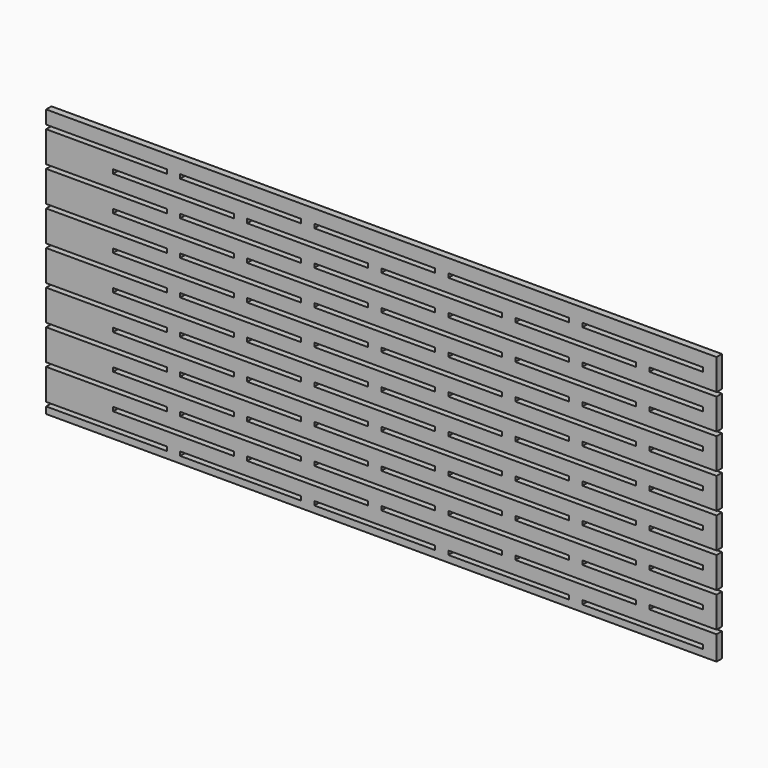
from build123d import *

# Parameters (mm, degrees)
F0_W     = 500
F0_H     = 200
F1_DEPTH = 5
F2_W     = 90
F2_H     = 3
F3_DEPTH = 25


with BuildPart() as f1:
    # F0 (on Front) → F1 (new body)
    with BuildSketch(Plane.XZ):
        Rectangle(F0_W, F0_H)
    extrude(amount=F1_DEPTH)

    # F2 (on face) → F3 (cut)
    with BuildSketch(Plane.XZ.offset(5)):
        with Locations((-205, 88.5)):
            Rectangle(F2_W, F2_H)
        with Locations((-155, 75.5)):
            Rectangle(F2_W, F2_H)
        with Locations((-205, 62.5)):
            Rectangle(F2_W, F2_H)
        with Locations((-155, 49.5)):
            Rectangle(F2_W, F2_H)
        with Locations((-205, 36.5)):
            Rectangle(F2_W, F2_H)
        with Locations((-155, 23.5)):
            Rectangle(F2_W, F2_H)
        with Locations((-205, 10.5)):
            Rectangle(F2_W, F2_H)
        with Locations((-155, -2.5)):
            Rectangle(F2_W, F2_H)
        with Locations((-205, -15.5)):
            Rectangle(F2_W, F2_H)
        with Locations((-155, -28.5)):
            Rectangle(F2_W, F2_H)
        with Locations((-205, -41.5)):
            Rectangle(F2_W, F2_H)
        with Locations((-155, -54.5)):
            Rectangle(F2_W, F2_H)
        with Locations((-205, -67.5)):
            Rectangle(F2_W, F2_H)
        with Locations((-155, -80.5)):
            Rectangle(F2_W, F2_H)
        with Locations((-205, -93.5)):
            Rectangle(F2_W, F2_H)
        with Locations((-155, -106.5)):
            Rectangle(F2_W, F2_H)
        with Locations((-105, 88.5)):
            Rectangle(F2_W, F2_H)
        with Locations((-55, 75.5)):
            Rectangle(F2_W, F2_H)
        with Locations((-105, 62.5)):
            Rectangle(F2_W, F2_H)
        with Locations((-55, 49.5)):
            Rectangle(F2_W, F2_H)
        with Locations((-105, 36.5)):
            Rectangle(F2_W, F2_H)
        with Locations((-55, 23.5)):
            Rectangle(F2_W, F2_H)
        with Locations((-105, 10.5)):
            Rectangle(F2_W, F2_H)
        with Locations((-55, -2.5)):
            Rectangle(F2_W, F2_H)
        with Locations((-105, -15.5)):
            Rectangle(F2_W, F2_H)
        with Locations((-55, -28.5)):
            Rectangle(F2_W, F2_H)
        with Locations((-105, -41.5)):
            Rectangle(F2_W, F2_H)
        with Locations((-55, -54.5)):
            Rectangle(F2_W, F2_H)
        with Locations((-105, -67.5)):
            Rectangle(F2_W, F2_H)
        with Locations((-55, -80.5)):
            Rectangle(F2_W, F2_H)
        with Locations((-105, -93.5)):
            Rectangle(F2_W, F2_H)
        with Locations((-55, -106.5)):
            Rectangle(F2_W, F2_H)
        with Locations((-5, 88.5)):
            Rectangle(F2_W, F2_H)
        with Locations((45, 75.5)):
            Rectangle(F2_W, F2_H)
        with Locations((-5, 62.5)):
            Rectangle(F2_W, F2_H)
        with Locations((45, 49.5)):
            Rectangle(F2_W, F2_H)
        with Locations((-5, 36.5)):
            Rectangle(F2_W, F2_H)
        with Locations((45, 23.5)):
            Rectangle(F2_W, F2_H)
        with Locations((-5, 10.5)):
            Rectangle(F2_W, F2_H)
        with Locations((45, -2.5)):
            Rectangle(F2_W, F2_H)
        with Locations((-5, -15.5)):
            Rectangle(F2_W, F2_H)
        with Locations((45, -28.5)):
            Rectangle(F2_W, F2_H)
        with Locations((-5, -41.5)):
            Rectangle(F2_W, F2_H)
        with Locations((45, -54.5)):
            Rectangle(F2_W, F2_H)
        with Locations((-5, -67.5)):
            Rectangle(F2_W, F2_H)
        with Locations((45, -80.5)):
            Rectangle(F2_W, F2_H)
        with Locations((-5, -93.5)):
            Rectangle(F2_W, F2_H)
        with Locations((45, -106.5)):
            Rectangle(F2_W, F2_H)
        with Locations((95, 88.5)):
            Rectangle(F2_W, F2_H)
        with Locations((145, 75.5)):
            Rectangle(F2_W, F2_H)
        with Locations((95, 62.5)):
            Rectangle(F2_W, F2_H)
        with Locations((145, 49.5)):
            Rectangle(F2_W, F2_H)
        with Locations((95, 36.5)):
            Rectangle(F2_W, F2_H)
        with Locations((145, 23.5)):
            Rectangle(F2_W, F2_H)
        with Locations((95, 10.5)):
            Rectangle(F2_W, F2_H)
        with Locations((145, -2.5)):
            Rectangle(F2_W, F2_H)
        with Locations((95, -15.5)):
            Rectangle(F2_W, F2_H)
        with Locations((145, -28.5)):
            Rectangle(F2_W, F2_H)
        with Locations((95, -41.5)):
            Rectangle(F2_W, F2_H)
        with Locations((145, -54.5)):
            Rectangle(F2_W, F2_H)
        with Locations((95, -67.5)):
            Rectangle(F2_W, F2_H)
        with Locations((145, -80.5)):
            Rectangle(F2_W, F2_H)
        with Locations((95, -93.5)):
            Rectangle(F2_W, F2_H)
        with Locations((145, -106.5)):
            Rectangle(F2_W, F2_H)
        with Locations((195, 88.5)):
            Rectangle(F2_W, F2_H)
        with Locations((245, 75.5)):
            Rectangle(F2_W, F2_H)
        with Locations((195, 62.5)):
            Rectangle(F2_W, F2_H)
        with Locations((245, 49.5)):
            Rectangle(F2_W, F2_H)
        with Locations((195, 36.5)):
            Rectangle(F2_W, F2_H)
        with Locations((245, 23.5)):
            Rectangle(F2_W, F2_H)
        with Locations((195, 10.5)):
            Rectangle(F2_W, F2_H)
        with Locations((245, -2.5)):
            Rectangle(F2_W, F2_H)
        with Locations((195, -15.5)):
            Rectangle(F2_W, F2_H)
        with Locations((245, -28.5)):
            Rectangle(F2_W, F2_H)
        with Locations((195, -41.5)):
            Rectangle(F2_W, F2_H)
        with Locations((245, -54.5)):
            Rectangle(F2_W, F2_H)
        with Locations((195, -67.5)):
            Rectangle(F2_W, F2_H)
        with Locations((245, -80.5)):
            Rectangle(F2_W, F2_H)
        with Locations((195, -93.5)):
            Rectangle(F2_W, F2_H)
        with Locations((245, -106.5)):
            Rectangle(F2_W, F2_H)
    extrude(amount=-F3_DEPTH, mode=Mode.SUBTRACT)


solid = f1.part
